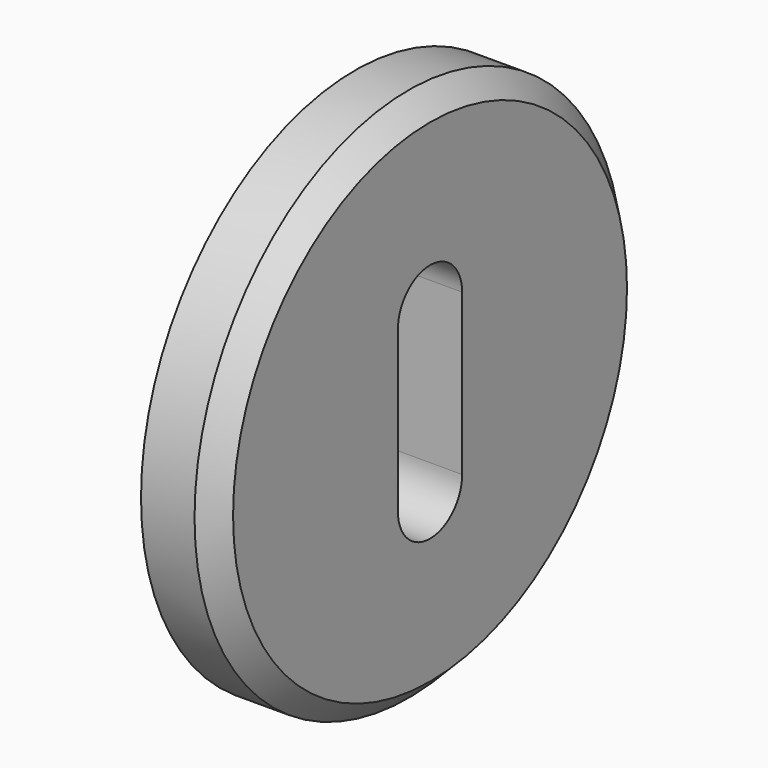
from build123d import *

# Parameters (mm, degrees)
EXTRUDE020_DEPTH         = 10
CIRCLE002_R              = 25
EXTRUDE019_DEPTH         = 7
CHAMFER002_SIZE          = 2
CLONE033_ROLL_ANGLE      = 180
CLONE033_PLACEMENT_ANGLE = -90


with BuildPart() as extrude020:
    # Sketch030 (on Face4 of Chamfer002) → Extrude020 (new body, symmetric)
    with BuildSketch(Plane(origin=(0, 7, 0), x_dir=(-1, 0, 0), z_dir=(0, 1, 0))):
        with BuildLine():
            ThreePointArc((3.75, 7.5), (0, 11.25), (-3.75, 7.5))
            Line((-3.75, 7.5), (-3.75, -7.5))
            ThreePointArc((-3.75, -7.5), (0, -11.25), (3.75, -7.5))
            Line((3.75, 7.5), (3.75, -7.5))
        make_face()
    extrude(amount=EXTRUDE020_DEPTH, both=True)


with BuildPart() as lock_right_external:
    # Circle002 → Extrude019 (new body)
    with BuildSketch(Plane.XZ):
        Circle(CIRCLE002_R)
    extrude(amount=-EXTRUDE019_DEPTH)

    # Chamfer002
    chamfer002_edges = [lock_right_external.edges().sort_by_distance(p)[0] for p in [
        (-25, 7, 0),
    ]]
    chamfer(chamfer002_edges, length=CHAMFER002_SIZE)

    # Cut004: cut Extrude020
    add(extrude020.part, mode=Mode.SUBTRACT)


with BuildPart() as lock_right_external_1:
    # Cut004 placement: moved
    add(lock_right_external.part.moved(Location((0, 0, -83.343755))))


with BuildPart() as lock_right_external_2:
    # Clone033 roll: moved
    add(lock_right_external_1.part.rotate(Axis((0, 0, 0), (1, 0, 0)), CLONE033_ROLL_ANGLE))


with BuildPart() as lock_right_external_3:
    # Clone033 placement: moved
    add(lock_right_external_2.part.moved(Location((-400, -215, -133.343755))).rotate(Axis((-400, -215, -133.343755), (0, 0, 1)), CLONE033_PLACEMENT_ANGLE))


with BuildPart() as mirror172:
    # Mirror172: instance of Lock_right_external
    add(lock_right_external_3.part.mirror(Plane(origin=(0, 0, 0), x_dir=(0, -1, 0), z_dir=(1, 0, 0))))


solid = mirror172.part
